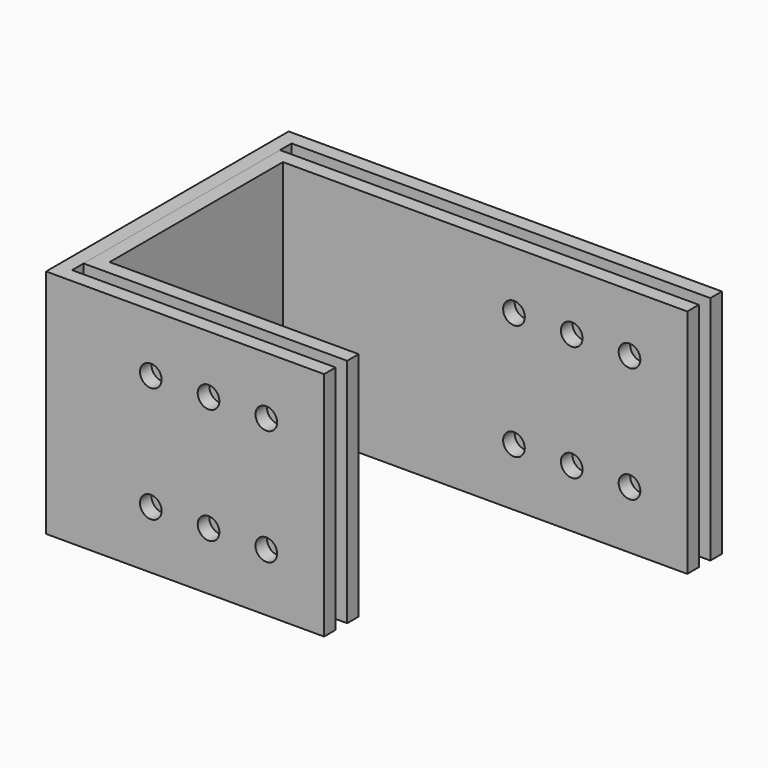
from build123d import *

# Parameters (mm, degrees)
F1_DEPTH = 50.8
F3_DEPTH = 50.8
F4_R     = 4.7625
F5_DEPTH = 74.632375
F6_R     = 4.7625
F7_DEPTH = 58.719625


with BuildPart() as f1:
    # F0 (on Top) → F1 (new body, symmetric)
    with BuildSketch(Plane.XY):
        Polygon((-74.361918, 55.581375), (103.438082, 55.581375), (103.438082, 61.931375), (-80.711918, 61.931375), (-80.711918, -46.018625), (35.175582, -46.018625), (35.175582, -39.668625), (-74.361918, -39.668625), align=None)
    extrude(amount=F1_DEPTH, both=True)


with BuildPart() as f3:
    # F2 (on Top) → F3 (new body, symmetric)
    with BuildSketch(Plane.XY):
        Polygon((-80.711918, 68.281375), (103.438082, 68.281375), (103.438082, 74.631375), (-87.061918, 74.631375), (-87.061918, -58.718625), (35.175582, -58.718625), (35.175582, -52.368625), (-80.711918, -52.368625), align=None)
    extrude(amount=F3_DEPTH, both=True)


with BuildPart() as f5_tool:
    # F4 (on Front) → F5 (new body, through all)
    with BuildSketch(Plane.XZ):
        with Locations((78.038082, 25.4)):
            Circle(F4_R)
        with Locations((78.038082, -25.4)):
            Circle(F4_R)
        with Locations((52.638082, 25.4)):
            Circle(F4_R)
        with Locations((52.638082, -25.4)):
            Circle(F4_R)
        with Locations((27.238082, 25.4)):
            Circle(F4_R)
        with Locations((27.238082, -25.4)):
            Circle(F4_R)
    extrude(amount=-F5_DEPTH)


with BuildPart() as f1_1:
    add(f1.part)

    # F5: cut by f5_tool
    add(f5_tool.part, mode=Mode.SUBTRACT)


with BuildPart() as f3_1:
    add(f3.part)

    # F5: cut by f5_tool
    add(f5_tool.part, mode=Mode.SUBTRACT)


with BuildPart() as f7_tool:
    # F6 (on Front) → F7 (new body, through all)
    with BuildSketch(Plane.XZ):
        with Locations((9.775582, 25.4)):
            Circle(F6_R)
        with Locations((9.775582, -25.4)):
            Circle(F6_R)
        with Locations((-15.624418, 25.4)):
            Circle(F6_R)
        with Locations((-15.624418, -25.4)):
            Circle(F6_R)
        with Locations((-41.024418, 25.4)):
            Circle(F6_R)
        with Locations((-41.024418, -25.4)):
            Circle(F6_R)
    extrude(amount=F7_DEPTH)


with BuildPart() as f1_2:
    add(f1_1.part)

    # F7: cut by f7_tool
    add(f7_tool.part, mode=Mode.SUBTRACT)


with BuildPart() as f3_2:
    add(f3_1.part)

    # F7: cut by f7_tool
    add(f7_tool.part, mode=Mode.SUBTRACT)


solid = Compound([f1_2.part, f3_2.part])
